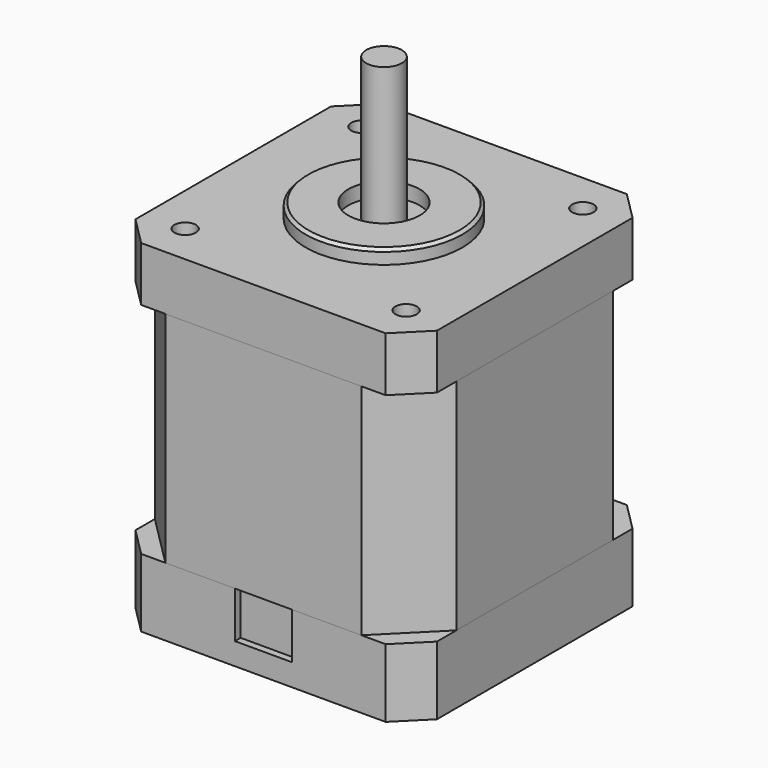
from build123d import *

# Parameters (mm, degrees)
SKETCH_W        = 42.3
SKETCH_H        = 42.3
PAD_DEPTH       = 48
CHAMFER_SIZE    = 4
SKETCH001_R     = 11
PAD001_DEPTH    = 2
CHAMFER001_SIZE = 0.4
SKETCH002_R     = 5
POCKET_DEPTH    = 2
SKETCH003_R     = 2.5
PAD002_DEPTH    = 20
SKETCH004_R     = 1.5
POCKET001_DEPTH = 3
SKETCH005_R     = 1.5
SKETCH005_R_2   = 4.581481
POCKET002_DEPTH = 3
SKETCH006_W     = 8
SKETCH006_H     = 6.5
POCKET003_DEPTH = 1
SKETCH007_W     = 51.107088
SKETCH007_H     = 30.75
POCKET004_DEPTH = 42.3
BOX_W           = 42.3
BOX_H           = 42.3
BOX_DEPTH       = 30.75
CHAMFER002_SIZE = 7.4


with BuildPart() as pocket004:
    # Sketch → Pad (new body)
    with BuildSketch(Plane.XY):
        Rectangle(SKETCH_W, SKETCH_H)
    extrude(amount=PAD_DEPTH)

    # Chamfer
    chamfer_edges = [pocket004.edges().sort_by_distance(p)[0] for p in [
        (21.15, -21.15, 24),
        (21.15, 21.15, 24),
        (-21.15, 21.15, 24),
        (-21.15, -21.15, 24),
    ]]
    chamfer(chamfer_edges, length=CHAMFER_SIZE)

    # Sketch001 → Pad001 (new body)
    with BuildSketch(Plane.XY.offset(48)):
        Circle(SKETCH001_R)
    extrude(amount=PAD001_DEPTH)

    # Chamfer001
    chamfer001_edges = [pocket004.edges().sort_by_distance(p)[0] for p in [
        (-11, 0, 50),
    ]]
    chamfer(chamfer001_edges, length=CHAMFER001_SIZE)

    # Sketch002 → Pocket (cut)
    with BuildSketch(Plane.XY.offset(50)):
        Circle(SKETCH002_R)
    extrude(amount=-POCKET_DEPTH, mode=Mode.SUBTRACT)

    # Sketch003 → Pad002 (new body)
    with BuildSketch(Plane.XY.offset(48)):
        Circle(SKETCH003_R)
    extrude(amount=PAD002_DEPTH)

    # Sketch004 → Pocket001 (cut)
    with BuildSketch(Plane.XY.offset(48)):
        with Locations((-15.5, 15.5)):
            Circle(SKETCH004_R)
        with Locations((15.5, 15.5)):
            Circle(SKETCH004_R)
        with Locations((-15.5, -15.5)):
            Circle(SKETCH004_R)
        with Locations((15.5, -15.5)):
            Circle(SKETCH004_R)
    extrude(amount=-POCKET001_DEPTH, mode=Mode.SUBTRACT)

    # Sketch005 → Pocket002 (cut)
    with BuildSketch(Plane(origin=(0, 0, 0), x_dir=(1, 0, 0), z_dir=(0, 0, -1))):
        with Locations((-15.5, 15.5)):
            Circle(SKETCH005_R)
        with Locations((15.5, 15.5)):
            Circle(SKETCH005_R)
        with Locations((-15.5, -15.5)):
            Circle(SKETCH005_R)
        with Locations((15.5, -15.5)):
            Circle(SKETCH005_R)
        Circle(SKETCH005_R_2)
    extrude(amount=-POCKET002_DEPTH, mode=Mode.SUBTRACT)

    # Sketch006 → Pocket003 (cut)
    with BuildSketch(Plane.XZ.offset(21.15)):
        with Locations((0, 6.35)):
            Rectangle(SKETCH006_W, SKETCH006_H)
    extrude(amount=-POCKET003_DEPTH, mode=Mode.SUBTRACT)

    # Sketch007 → Pocket004 (cut)
    with BuildSketch(Plane.XZ.offset(21.15)):
        with Locations((0, 24.975)):
            Rectangle(SKETCH007_W, SKETCH007_H)
    extrude(amount=-POCKET004_DEPTH, mode=Mode.SUBTRACT)


with BuildPart() as chamfer002:
    # Box → Box (new body)
    with BuildSketch(Plane(origin=(-21.15, -21.15, 9.6), x_dir=(1, 0, 0), z_dir=(0, 0, 1))):
        with Locations((21.15, 21.15)):
            Rectangle(BOX_W, BOX_H)
    extrude(amount=BOX_DEPTH)

    # Chamfer002
    chamfer002_edges = [chamfer002.edges().sort_by_distance(p)[0] for p in [
        (-21.15, -21.15, 24.975),
        (-21.15, 21.15, 24.975),
        (21.15, -21.15, 24.975),
        (21.15, 21.15, 24.975),
    ]]
    chamfer(chamfer002_edges, length=CHAMFER002_SIZE)


solid = Compound([pocket004.part, chamfer002.part])
